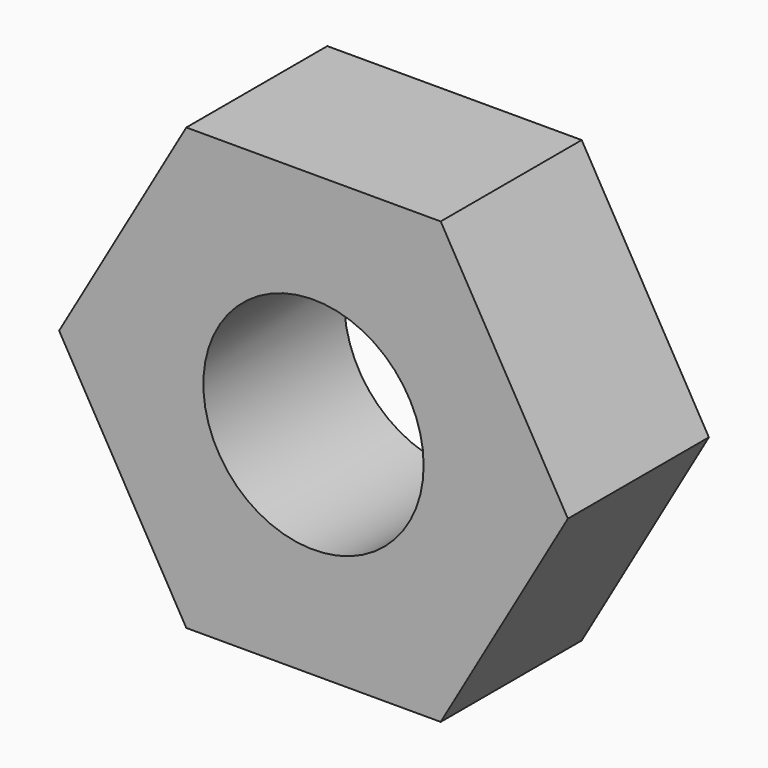
from build123d import *

# Parameters (mm, degrees)
SKETCH_R  = 1.25
PAD_DEPTH = 2


with BuildPart() as part:
    # Sketch → Pad (new body)
    with BuildSketch(Plane.XZ):
        Polygon((1.443376, 2.5), (-1.443376, 2.5), (-2.886751, 0), (-1.443376, -2.5), (1.443376, -2.5), (2.886751, 0), align=None)
        Circle(SKETCH_R, mode=Mode.SUBTRACT)
    extrude(amount=PAD_DEPTH)


solid = part.part
